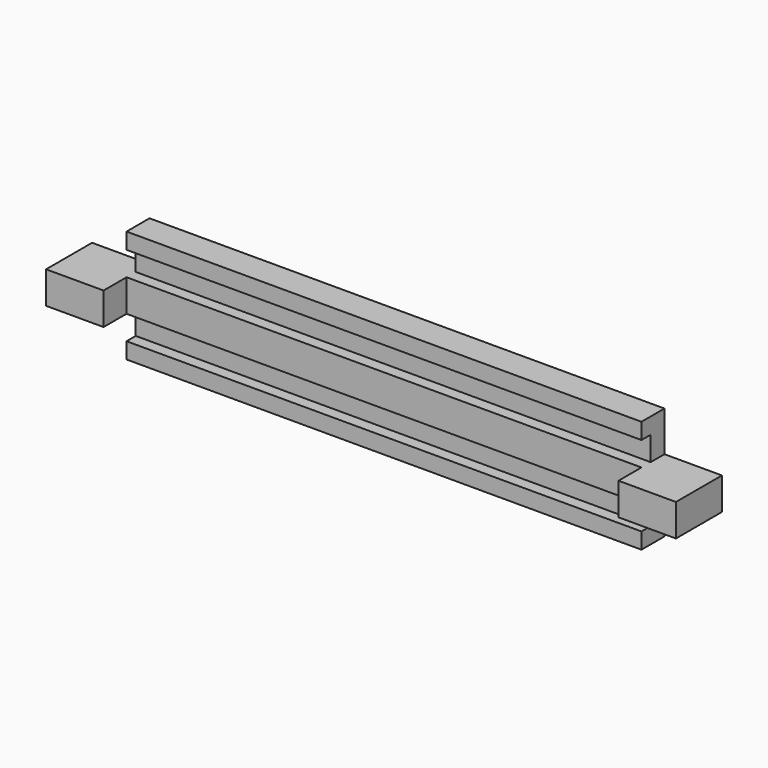
from build123d import *

# Parameters (mm, degrees)
F0_W     = 448
F0_H     = 14
F0_H_2   = 21
F1_DEPTH = 25
F2_W     = 448
F2_H     = 21
F3_DEPTH = 10
F4_W     = 50
F4_H     = 28
F5_DEPTH = 25


with BuildPart() as f1:
    # F0 (on Front) → F1 (new body)
    with BuildSketch(Plane.XZ):
        with Locations((0, 42)):
            Rectangle(F0_W, F0_H)
        with Locations((0, -42)):
            Rectangle(F0_W, F0_H)
        Polygon((-224, 0), (-224, 14), (-274, 14), (-274, 0), (-274, -14), (-224, -14), align=None)
        Polygon((274, 14), (224, 14), (224, 0), (224, -14), (274, -14), (274, 0), align=None)
        with Locations((0, 24.5)):
            Rectangle(F0_W, F0_H_2)
        Polygon((224, 0), (224, 14), (-224, 14), (-224, 0), (-224, -14), (224, -14), align=None)
        with Locations((0, -24.5)):
            Rectangle(F0_W, F0_H_2)
    extrude(amount=F1_DEPTH)

    # F2 (on face) → F3 (cut)
    with BuildSketch(Plane.XZ.offset(25)):
        Polygon((-224, 31.5), (-224, 14), (224, 14), (224, 35), (-224, 35), align=None)
        with Locations((0, -24.5)):
            Rectangle(F2_W, F2_H)
    extrude(amount=-F3_DEPTH, mode=Mode.SUBTRACT)

    # F4 (on face) → F5 (join)
    with BuildSketch(Plane.XZ.offset(25)):
        with Locations((249, 0)):
            Rectangle(F4_W, F4_H)
        with Locations((-249, 0)):
            Rectangle(F4_W, F4_H)
    extrude(amount=F5_DEPTH)


solid = f1.part
